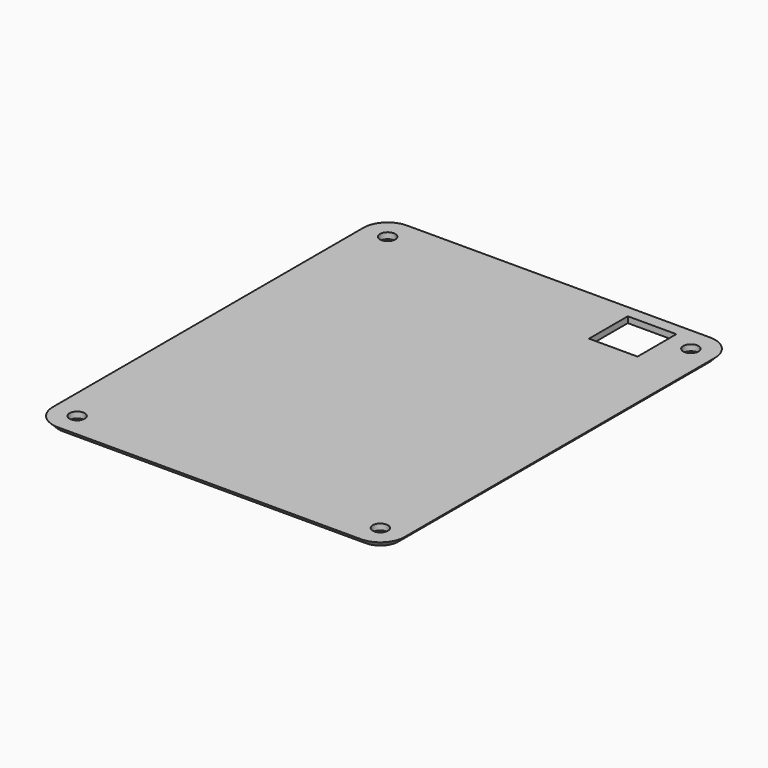
from build123d import *

# Parameters (mm, degrees)
SKETCH039_W      = 60
SKETCH039_H      = 74
SKETCH039_R      = 1.25
SKETCH039_W_2    = 8
SKETCH039_H_2    = 8
EXTRUDE040_DEPTH = 1


with BuildPart() as bevel001:
    # Sweep002: sweep along a path in Sketch041
    with BuildLine(Plane(origin=(0, 0, -2), x_dir=(1, 0, 0), z_dir=(0, 0, -1))) as sweep002_path:
        Line((-25, 35), (25, 35))
        ThreePointArc((25, 35), (27.12132, 34.12132), (28, 32))
        Line((28, 32), (28, -32))
        ThreePointArc((28, -32), (27.12132, -34.12132), (25, -35))
        Line((25, -35), (-25, -35))
        ThreePointArc((-25, -35), (-27.12132, -34.12132), (-28, -32))
        Line((-28, -32), (-28, 32))
        ThreePointArc((-28, 32), (-27.12132, 34.12132), (-25, 35))
    # Sketch040 → Sweep002 (sweep)
    with BuildSketch(Plane.XZ):
        Polygon((-28, 11), (-30, 9), (-30, 1), (-28, -1), (-28, -2), (-33, -2), (-33, 12), (-28, 12), align=None)
    sweep(path=sweep002_path.line)


with BuildPart() as cut026:
    # Sketch039 → Extrude040 (new body)
    with BuildSketch(Plane.XY):
        Rectangle(SKETCH039_W, SKETCH039_H)
        with Locations((-25, 32)):
            Circle(SKETCH039_R, mode=Mode.SUBTRACT)
        with Locations((25, 32)):
            Circle(SKETCH039_R, mode=Mode.SUBTRACT)
        with Locations((-25, -32)):
            Circle(SKETCH039_R, mode=Mode.SUBTRACT)
        with Locations((25, -32)):
            Circle(SKETCH039_R, mode=Mode.SUBTRACT)
        with Locations((17, 30)):
            Rectangle(SKETCH039_W_2, SKETCH039_H_2, mode=Mode.SUBTRACT)
    extrude(amount=-EXTRUDE040_DEPTH)

    # Cut026: cut bevel001
    add(bevel001.part, mode=Mode.SUBTRACT)


solid = cut026.part
